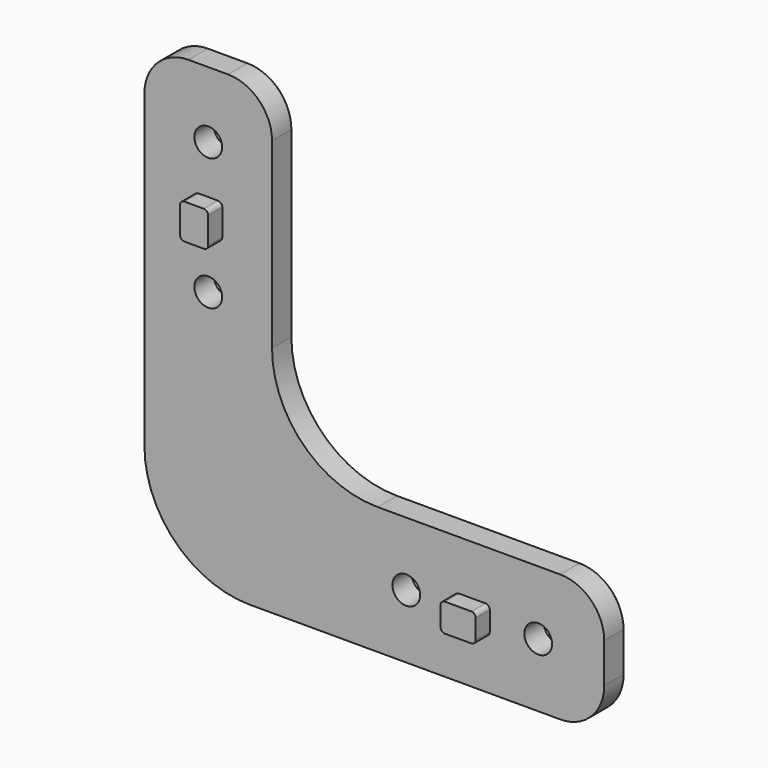
from build123d import *

# Parameters (mm, degrees)
F0_R     = 1.575
F1_DEPTH = 3
F2_R     = 5
F3_R     = 12
F4_W     = 3.2
F4_H     = 4
F4_W_2   = 4
F4_H_2   = 3.2
F5_DEPTH = 2
F6_R     = 0.5
F7_SIZE  = 0.25


with BuildPart() as f1:
    # F0 (on Front) → F1 (new body)
    with BuildSketch(Plane.XZ):
        Polygon((7.25, 7.25), (7.25, 45), (-7.25, 45), (-7.25, -7.25), (45, -7.25), (45, 7.25), align=None)
        with Locations((22.5, 0)):
            Circle(F0_R, mode=Mode.SUBTRACT)
        with Locations((37.5, 0)):
            Circle(F0_R, mode=Mode.SUBTRACT)
        with Locations((0, 22.5)):
            Circle(F0_R, mode=Mode.SUBTRACT)
        with Locations((0, 37.5)):
            Circle(F0_R, mode=Mode.SUBTRACT)
    extrude(amount=F1_DEPTH)

    # F2
    f2_edges = [f1.edges().sort_by_distance(p)[0] for p in [
        (-7.25, -1.5, 45),
        (7.25, -1.5, 45),
        (45, -1.5, 7.25),
        (45, -1.5, -7.25),
    ]]
    fillet(f2_edges, radius=F2_R)

    # F3
    f3_edges = [f1.edges().sort_by_distance(p)[0] for p in [
        (7.25, -1.5, 7.25),
        (-7.25, -1.5, -7.25),
    ]]
    fillet(f3_edges, radius=F3_R)

    # F4 (on face) → F5 (join)
    with BuildSketch(Plane.XZ.offset(3)):
        with Locations((0, 30)):
            Rectangle(F4_W, F4_H)
        with Locations((30, 0)):
            Rectangle(F4_W_2, F4_H_2)
    extrude(amount=F5_DEPTH)

    # F6
    f6_edges = [f1.edges().sort_by_distance(p)[0] for p in [
        (28, -4, -1.6),
        (32, -4, -1.6),
        (32, -4, 1.6),
        (28, -4, 1.6),
        (-1.6, -4, 28),
        (-1.6, -4, 32),
        (1.6, -4, 28),
        (1.6, -4, 32),
    ]]
    fillet(f6_edges, radius=F6_R)

    # F7
    f7_edges = [f1.edges().sort_by_distance(p)[0] for p in [
        (7.25, 0, 29.625),
        (10.764719, 0, 10.764719),
        (5.785534, 0, 43.535534),
        (29.625, 0, 7.25),
        (0, 0, 45),
        (43.535534, 0, 5.785534),
        (-5.785534, 0, 43.535534),
        (45, 0, 0),
        (-7.25, 0, 22.375),
        (43.535534, 0, -5.785534),
        (-3.735281, 0, -3.735281),
        (22.375, 0, -7.25),
        (20.925, 0, 0),
        (35.925, 0, 0),
        (-1.575, 0, 22.5),
        (-1.575, 0, 37.5),
    ]]
    chamfer(f7_edges, length=F7_SIZE)


solid = f1.part
